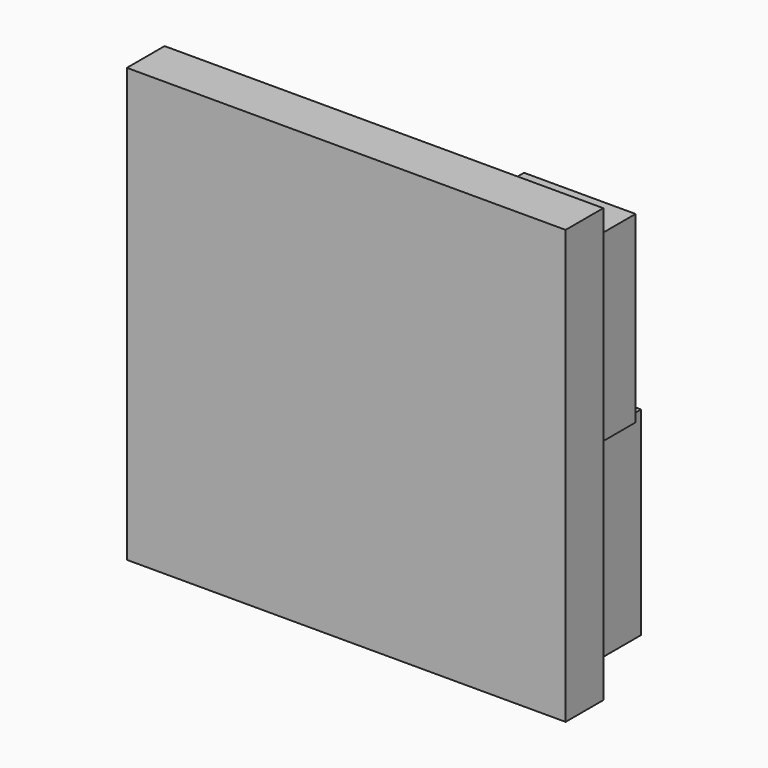
from build123d import *

# Parameters (mm, degrees)
F0_W     = 118.373677
F0_H     = 116.875283
F1_DEPTH = 12.7
F2_W     = 106.976003
F2_H     = 53.587355
F3_DEPTH = 25.4
F4_W     = 30.09352
F4_H     = 49.528088
F4_W_2   = 47.223489
F4_H_2   = 38.565222
F5_DEPTH = 12.7
F6_W     = 16.616419
F6_H     = 41.588474
F7_DEPTH = 12.7


with BuildPart() as f1:
    # F0 (on Front) → F1 (new body)
    with BuildSketch(Plane.XZ):
        with Locations((136.354491, 2.996803)):
            Rectangle(F0_W, F0_H)
    extrude(amount=F1_DEPTH)

    # F2 (on face) → F3 (join)
    with BuildSketch(Plane(origin=(0, 0, 0), x_dir=(-1, 0, 0), z_dir=(0, 1, 0))):
        with Locations((-131.941452, -26.793677)):
            Rectangle(F2_W, F2_H)
    extrude(amount=F3_DEPTH)

    # F4 (on face) → F5 (join)
    with BuildSketch(Plane(origin=(0, 0, 0), x_dir=(-1, 0, 0), z_dir=(0, 1, 0))):
        with Locations((-179.041378, 29.658426)):
            Rectangle(F4_W, F4_H)
        with Locations((-105.113152, 25.712056)):
            Rectangle(F4_W_2, F4_H_2)
    extrude(amount=F5_DEPTH)

    # F6 (on face) → F7 (join)
    with BuildSketch(Plane(origin=(0, 0, 0), x_dir=(-1, 0, 0), z_dir=(0, 1, 0))):
        with Locations((-90.637371, 21.197991)):
            Rectangle(F6_W, F6_H)
    extrude(amount=F7_DEPTH)


solid = f1.part
